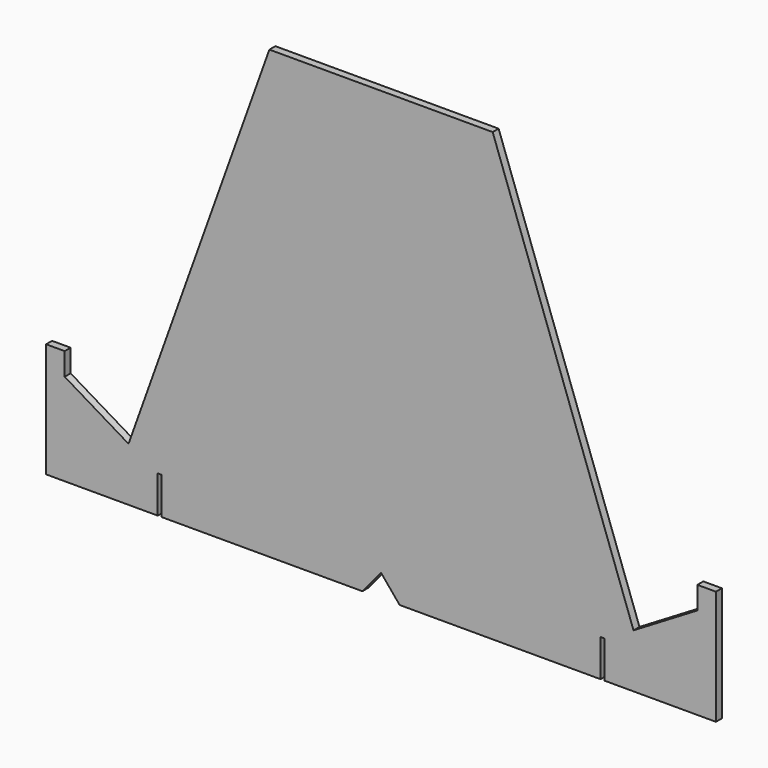
from build123d import *

# Parameters (mm, degrees)
F1_DEPTH = 2


with BuildPart() as f1:
    # F0 (on Front) → F1 (new body)
    with BuildSketch(Plane.XZ):
        Polygon((-23.707487, 85.347777), (-33.707487, 85.347777), (-71.553174, -20.210347), (-88.707487, -9.92786), (-88.707487, -3.865157), (-93.707487, -3.865157), (-93.707487, -34.652223), (-63.707487, -34.652223), (-63.707487, -24.652223), (-62.707487, -24.652223), (-62.707487, -34.652223), (-23.707487, -34.652223), align=None)
        Polygon((16.292513, 85.347777), (-23.707487, 85.347777), (-23.707487, -34.652223), (-8.707487, -34.652223), (-3.707487, -28.652223), (1.292513, -34.652223), (16.292513, -34.652223), align=None)
        Polygon((26.292513, 85.347777), (16.292513, 85.347777), (16.292513, -34.652223), (55.292513, -34.652223), (55.292513, -24.652223), (56.292513, -24.652223), (56.292513, -34.652223), (81.292513, -34.652223), (86.292513, -34.652223), (86.292513, -4.652223), (86.292513, -3.865157), (81.292513, -3.865157), (81.292513, -9.92786), (64.1382, -20.210347), align=None)
    extrude(amount=F1_DEPTH)


solid = f1.part
